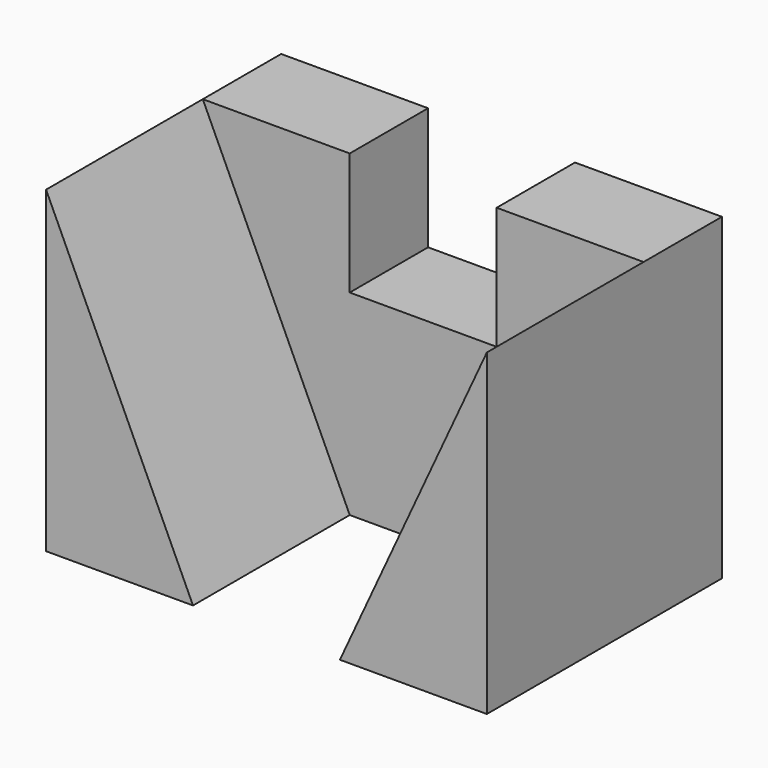
from build123d import *

# Parameters (mm, degrees)
F0_W     = 30
F0_H     = 40
F1_DEPTH = 20
F3_DEPTH = 40


with BuildPart() as f1:
    # F0 (on Front) → F1 (new body)
    with BuildSketch(Plane.XZ):
        Rectangle(F0_W, F0_H)
        Polygon((15, 45), (15, 20), (15, -20), (45, -20), (45, 45), align=None)
        Polygon((-15, -20), (-15, 20), (-15, 45), (-45, 45), (-45, -20), align=None)
    extrude(amount=F1_DEPTH)

    # F2 (on face) → F3 (join)
    with BuildSketch(Plane.XZ.offset(20)):
        Polygon((-15, -20), (-45, 45), (-45, -20), align=None)
        Polygon((45, 45), (15, -20), (45, -20), align=None)
    extrude(amount=F3_DEPTH)


solid = f1.part
